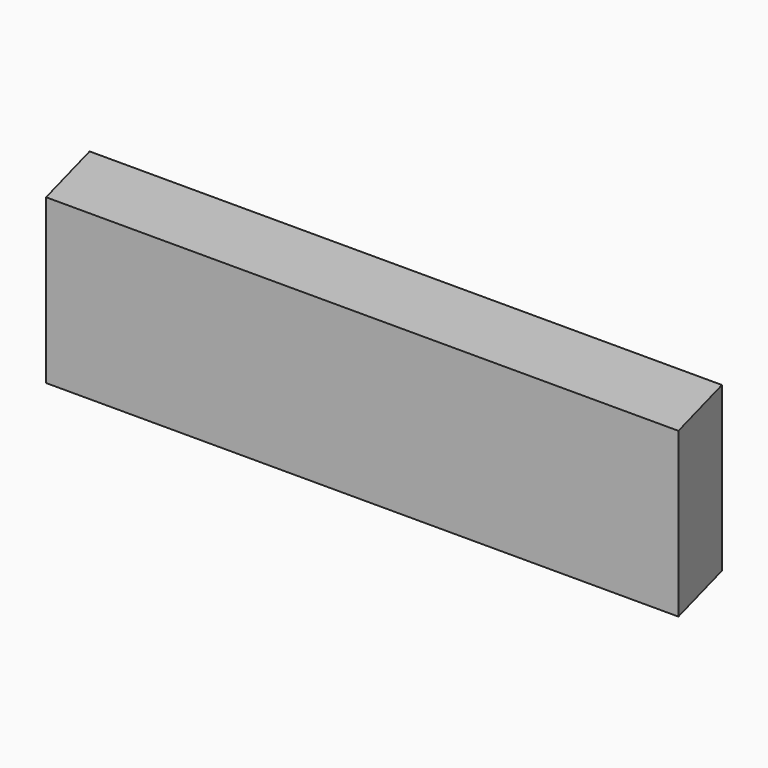
from build123d import *

# Parameters (mm, degrees)
F0_W     = 355.6
F0_H     = 88.9
F1_DEPTH = 44.45
F3_DEPTH = 101.6


with BuildPart() as f1:
    # F0 (on Front) → F1 (new body)
    with BuildSketch(Plane.XZ):
        with Locations((-177.8, 44.45)):
            Rectangle(F0_W, F0_H)
    extrude(amount=F1_DEPTH)

    # F2 (on face) → F3 (cut)
    with BuildSketch(Plane.XY.offset(88.9)):
        Polygon((0, 0), (-11.910342, 0), (0, -44.45), align=None)
        Polygon((-343.689658, -44.45), (-355.6, 0), (-355.6, -44.45), align=None)
    extrude(amount=-F3_DEPTH, mode=Mode.SUBTRACT)


solid = f1.part
